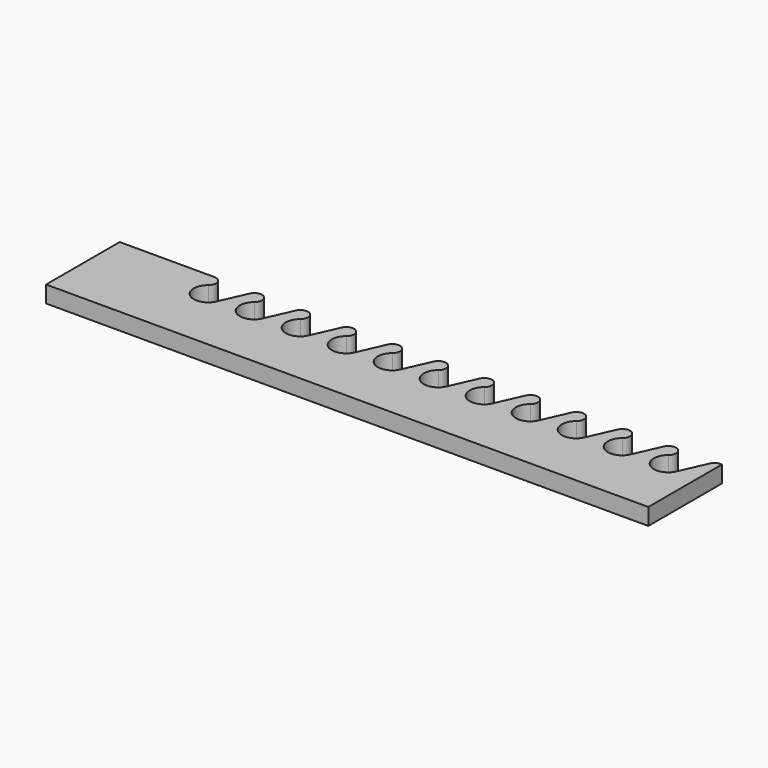
from build123d import *

# Parameters (mm, degrees)
F0_W     = 457.2
F0_H     = 69.85
F1_DEPTH = 12.7
F3_DEPTH = 25.4


with BuildPart() as f1:
    # F0 (on Top) → F1 (new body)
    with BuildSketch(Plane.XY):
        with Locations((228.6, -34.925)):
            Rectangle(F0_W, F0_H)
    extrude(amount=F1_DEPTH)

    # F2 (on Top) → F3 (cut)
    with BuildSketch(Plane.XY):
        with BuildLine():
            ThreePointArc((421.169675, 0), (426.679499, -3.900144), (424.832559, -10.393071))
            ThreePointArc((424.832559, -10.393071), (424.362525, -27.306611), (441.135231, -25.07836))
            Line((441.135231, -25.07836), (450.757743, -3.465845))
            ThreePointArc((450.757743, -3.465845), (452.912894, -0.942487), (456.094675, 0))
            Line((456.094675, 0), (456.094675, 5.064353))
            Line((456.094675, 5.064353), (421.169675, 5.064353))
            Line((421.169675, 5.064353), (421.169675, 0))
        make_face()
        with BuildLine():
            ThreePointArc((415.832743, -3.465845), (417.987894, -0.942487), (421.169675, 0))
            Line((421.169675, 0), (421.169675, 5.064353))
            Line((421.169675, 5.064353), (386.244675, 5.064353))
            Line((386.244675, 5.064353), (386.244675, 0))
            ThreePointArc((386.244675, 0), (391.754499, -3.900144), (389.907559, -10.393071))
            ThreePointArc((389.907559, -10.393071), (389.437525, -27.306611), (406.210231, -25.07836))
            Line((406.210231, -25.07836), (415.832743, -3.465845))
        make_face()
        with BuildLine():
            Line((386.244675, 0), (386.244675, 5.064353))
            Line((386.244675, 5.064353), (351.319675, 5.064353))
            Line((351.319675, 5.064353), (351.319675, 0))
            ThreePointArc((351.319675, 0), (356.829499, -3.900144), (354.982559, -10.393071))
            ThreePointArc((354.982559, -10.393071), (354.512525, -27.306611), (371.285231, -25.07836))
            Line((371.285231, -25.07836), (380.907743, -3.465845))
            ThreePointArc((380.907743, -3.465845), (383.062894, -0.942487), (386.244675, 0))
        make_face()
        with BuildLine():
            Line((351.319675, 0), (351.319675, 5.064353))
            Line((351.319675, 5.064353), (316.394675, 5.064353))
            Line((316.394675, 5.064353), (316.394675, 0))
            ThreePointArc((316.394675, 0), (321.904499, -3.900144), (320.057559, -10.393071))
            ThreePointArc((320.057559, -10.393071), (319.587525, -27.306611), (336.360231, -25.07836))
            Line((336.360231, -25.07836), (345.982743, -3.465845))
            ThreePointArc((345.982743, -3.465845), (348.137894, -0.942487), (351.319675, 0))
        make_face()
        with BuildLine():
            Line((316.394675, 0), (316.394675, 5.064353))
            Line((316.394675, 5.064353), (281.469675, 5.064353))
            Line((281.469675, 5.064353), (281.469675, 0))
            ThreePointArc((281.469675, 0), (286.979499, -3.900144), (285.132559, -10.393071))
            ThreePointArc((285.132559, -10.393071), (284.662525, -27.306611), (301.435231, -25.07836))
            Line((301.435231, -25.07836), (311.057743, -3.465845))
            ThreePointArc((311.057743, -3.465845), (313.212894, -0.942487), (316.394675, 0))
        make_face()
        with BuildLine():
            Line((281.469675, 0), (281.469675, 5.064353))
            Line((281.469675, 5.064353), (246.544675, 5.064353))
            Line((246.544675, 5.064353), (246.544675, 0))
            ThreePointArc((246.544675, 0), (252.054499, -3.900144), (250.207559, -10.393071))
            ThreePointArc((250.207559, -10.393071), (249.737525, -27.306611), (266.510231, -25.07836))
            Line((266.510231, -25.07836), (276.132743, -3.465845))
            ThreePointArc((276.132743, -3.465845), (278.287894, -0.942487), (281.469675, 0))
        make_face()
        with BuildLine():
            Line((246.544675, 0), (246.544675, 5.064353))
            Line((246.544675, 5.064353), (211.619675, 5.064353))
            Line((211.619675, 5.064353), (211.619675, 0))
            ThreePointArc((211.619675, 0), (217.129499, -3.900144), (215.282559, -10.393071))
            ThreePointArc((215.282559, -10.393071), (214.812525, -27.306611), (231.585231, -25.07836))
            Line((231.585231, -25.07836), (241.207743, -3.465845))
            ThreePointArc((241.207743, -3.465845), (243.362894, -0.942487), (246.544675, 0))
        make_face()
        with BuildLine():
            Line((211.619675, 0), (211.619675, 5.064353))
            Line((211.619675, 5.064353), (176.694675, 5.064353))
            Line((176.694675, 5.064353), (176.694675, 0))
            ThreePointArc((176.694675, 0), (182.204499, -3.900144), (180.357559, -10.393071))
            ThreePointArc((180.357559, -10.393071), (179.887525, -27.306611), (196.660231, -25.07836))
            Line((196.660231, -25.07836), (206.282743, -3.465845))
            ThreePointArc((206.282743, -3.465845), (208.437894, -0.942487), (211.619675, 0))
        make_face()
        with BuildLine():
            Line((176.694675, 0), (176.694675, 5.064353))
            Line((176.694675, 5.064353), (141.769675, 5.064353))
            Line((141.769675, 5.064353), (141.769675, 0))
            ThreePointArc((141.769675, 0), (147.279499, -3.900144), (145.432559, -10.393071))
            ThreePointArc((145.432559, -10.393071), (144.962525, -27.306611), (161.735231, -25.07836))
            Line((161.735231, -25.07836), (171.357743, -3.465845))
            ThreePointArc((171.357743, -3.465845), (173.512894, -0.942487), (176.694675, 0))
        make_face()
        with BuildLine():
            Line((141.769675, 0), (141.769675, 5.064353))
            Line((141.769675, 5.064353), (106.844675, 5.064353))
            Line((106.844675, 5.064353), (106.844675, 0))
            ThreePointArc((106.844675, 0), (112.354499, -3.900144), (110.507559, -10.393071))
            ThreePointArc((110.507559, -10.393071), (110.037525, -27.306611), (126.810231, -25.07836))
            Line((126.810231, -25.07836), (136.432743, -3.465845))
            ThreePointArc((136.432743, -3.465845), (138.587894, -0.942487), (141.769675, 0))
        make_face()
        with BuildLine():
            Line((106.844675, 0), (106.844675, 5.064353))
            Line((106.844675, 5.064353), (71.919675, 5.064353))
            Line((71.919675, 5.064353), (71.919675, 0))
            ThreePointArc((71.919675, 0), (77.429499, -3.900144), (75.582559, -10.393071))
            ThreePointArc((75.582559, -10.393071), (75.112525, -27.306611), (91.885231, -25.07836))
            Line((91.885231, -25.07836), (101.507743, -3.465845))
            ThreePointArc((101.507743, -3.465845), (103.662894, -0.942487), (106.844675, 0))
        make_face()
    extrude(amount=F3_DEPTH, mode=Mode.SUBTRACT)


solid = f1.part
